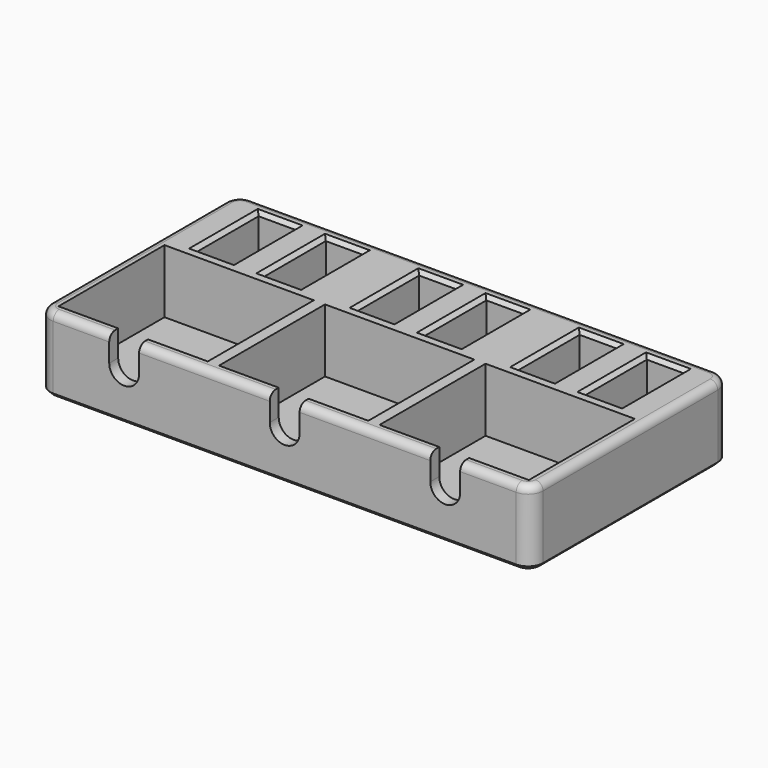
from build123d import *

# Parameters (mm, degrees)
F0_W     = 132
F0_H     = 66.5
F0_W_2   = 10
F0_H_2   = 21
F0_W_3   = 40
F0_H_3   = 35.5
F1_DEPTH = 17
F2_W     = 132
F2_H     = 66.5
F2_W_2   = 10
F2_H_2   = 21
F2_W_3   = 40
F2_H_3   = 35.5
F3_DEPTH = 3
F5_DEPTH = 3
F6_ANGLE = 180
F7_R     = 4
F8_R     = 2
F9_SIZE  = 1
F10_SIZE = 1


with BuildPart() as f1:
    # F0 (on Top) → F1 (new body)
    with BuildSketch(Plane.XY):
        with Locations((-10.436555624, -5.9587561041)):
            Rectangle(F0_W, F0_H)
        with Locations((-62.436555624, -24.7087561041)):
            Rectangle(F0_W_2, F0_H_2, mode=Mode.SUBTRACT)
        with Locations((-44.436555624, -24.7087561041)):
            Rectangle(F0_W_2, F0_H_2, mode=Mode.SUBTRACT)
        with Locations((-19.436555624, -24.7087561041)):
            Rectangle(F0_W_2, F0_H_2, mode=Mode.SUBTRACT)
        with Locations((-1.436555624, -24.7087561041)):
            Rectangle(F0_W_2, F0_H_2, mode=Mode.SUBTRACT)
        with Locations((23.563444376, -24.7087561041)):
            Rectangle(F0_W_2, F0_H_2, mode=Mode.SUBTRACT)
        with Locations((41.563444376, -24.7087561041)):
            Rectangle(F0_W_2, F0_H_2, mode=Mode.SUBTRACT)
        with Locations((-53.436555624, 6.5412438959)):
            Rectangle(F0_W_3, F0_H_3, mode=Mode.SUBTRACT)
        with Locations((-10.436555624, 6.5412438959)):
            Rectangle(F0_W_3, F0_H_3, mode=Mode.SUBTRACT)
        with Locations((32.563444376, 6.5412438959)):
            Rectangle(F0_W_3, F0_H_3, mode=Mode.SUBTRACT)
    extrude(amount=F1_DEPTH)

    # F2 (on face) → F3 (join)
    with BuildSketch(Plane.XY.offset(17)):
        with Locations((-10.436555624, -5.9587561041)):
            Rectangle(F2_W, F2_H)
        with Locations((-62.436555624, -24.7087561041)):
            Rectangle(F2_W_2, F2_H_2, mode=Mode.SUBTRACT)
        with Locations((-44.436555624, -24.7087561041)):
            Rectangle(F2_W_2, F2_H_2, mode=Mode.SUBTRACT)
        with Locations((-19.436555624, -24.7087561041)):
            Rectangle(F2_W_2, F2_H_2, mode=Mode.SUBTRACT)
        with Locations((-1.436555624, -24.7087561041)):
            Rectangle(F2_W_2, F2_H_2, mode=Mode.SUBTRACT)
        with Locations((23.563444376, -24.7087561041)):
            Rectangle(F2_W_2, F2_H_2, mode=Mode.SUBTRACT)
        with Locations((41.563444376, -24.7087561041)):
            Rectangle(F2_W_2, F2_H_2, mode=Mode.SUBTRACT)
        with Locations((-53.436555624, 6.5412438959)):
            Rectangle(F2_W_3, F2_H_3, mode=Mode.SUBTRACT)
        with Locations((-10.436555624, 6.5412438959)):
            Rectangle(F2_W_3, F2_H_3, mode=Mode.SUBTRACT)
        with Locations((32.563444376, 6.5412438959)):
            Rectangle(F2_W_3, F2_H_3, mode=Mode.SUBTRACT)
        with Locations((-53.436555624, 6.5412438959)):
            Rectangle(F2_W_3, F2_H_3)
        with Locations((-10.436555624, 6.5412438959)):
            Rectangle(F2_W_3, F2_H_3)
        with Locations((32.563444376, 6.5412438959)):
            Rectangle(F2_W_3, F2_H_3)
        with Locations((41.563444376, -24.7087561041)):
            Rectangle(F2_W_2, F2_H_2)
        with Locations((23.563444376, -24.7087561041)):
            Rectangle(F2_W_2, F2_H_2)
        with Locations((-1.436555624, -24.7087561041)):
            Rectangle(F2_W_2, F2_H_2)
        with Locations((-19.436555624, -24.7087561041)):
            Rectangle(F2_W_2, F2_H_2)
        with Locations((-44.436555624, -24.7087561041)):
            Rectangle(F2_W_2, F2_H_2)
        with Locations((-62.436555624, -24.7087561041)):
            Rectangle(F2_W_2, F2_H_2)
    extrude(amount=F3_DEPTH)

    # F4 (on face) → F5 (cut, through all)
    with BuildSketch(Plane(origin=(0, 27.2912438959, 0), x_dir=(-1, 0, 0), z_dir=(0, 1, 0))):
        with BuildLine():
            Line((57.436555624, 0), (57.436555624, 7))
            ThreePointArc((57.436555624, 7), (53.436555624, 11), (49.436555624, 7))
            Line((49.436555624, 7), (49.436555624, 0))
            Line((49.436555624, 0), (57.436555624, 0))
        make_face()
        with BuildLine():
            Line((6.436555624, 0), (14.436555624, 0))
            Line((14.436555624, 0), (14.436555624, 7))
            ThreePointArc((14.436555624, 7), (10.436555624, 11), (6.436555624, 7))
            Line((6.436555624, 7), (6.436555624, 0))
        make_face()
        with BuildLine():
            Line((-36.563444376, 0), (-28.563444376, 0))
            Line((-28.563444376, 0), (-28.563444376, 7))
            ThreePointArc((-28.563444376, 7), (-32.563444376, 11), (-36.563444376, 7))
            Line((-36.563444376, 7), (-36.563444376, 0))
        make_face()
    extrude(amount=-F5_DEPTH, mode=Mode.SUBTRACT)


with BuildPart() as f1_1:
    # F6: moved
    add(f1.part.rotate(Axis((-10.436555624, 27.2912438959, 20), (1, 0, 0)), F6_ANGLE))

    # F7
    f7_edges = [f1_1.edges().sort_by_distance(p)[0] for p in [
        (-76.436556, 27.291244, 30),
        (55.563444, 27.291244, 30),
        (55.563444, 93.791244, 30),
        (-76.436556, 93.791244, 30),
    ]]
    fillet(f7_edges, radius=F7_R)

    # F8
    f8_edges = [f1_1.edges().sort_by_distance(p)[0] for p in [
        (-76.436556, 60.541244, 40),
        (-10.436556, 93.791244, 40),
        (-31.936556, 27.291244, 40),
        (11.063444, 27.291244, 40),
    ]]
    fillet(f8_edges, radius=F8_R)

    # F9
    f9_edges = [f1_1.edges().sort_by_distance(p)[0] for p in [
        (-67.436556, 79.291244, 40),
        (-39.436556, 79.291244, 40),
        (-49.436556, 79.291244, 40),
        (-62.436556, 68.791244, 40),
        (-57.436556, 79.291244, 40),
        (-24.436556, 79.291244, 40),
        (-14.436556, 79.291244, 40),
        (-6.436556, 79.291244, 40),
        (3.563444, 79.291244, 40),
        (18.563444, 79.291244, 40),
        (28.563444, 79.291244, 40),
        (36.563444, 79.291244, 40),
        (46.563444, 79.291244, 40),
        (41.563444, 68.791244, 40),
        (23.563444, 68.791244, 40),
        (-1.436556, 68.791244, 40),
        (-19.436556, 68.791244, 40),
        (-44.436556, 68.791244, 40),
        (-44.436556, 89.791244, 40),
        (-62.436556, 89.791244, 40),
        (-19.436556, 89.791244, 40),
        (-1.436556, 89.791244, 40),
        (23.563444, 89.791244, 40),
        (41.563444, 89.791244, 40),
    ]]
    chamfer(f9_edges, length=F9_SIZE)

    # F10
    f10_edges = [f1_1.edges().sort_by_distance(p)[0] for p in [
        (-10.436556, 27.291244, 20),
    ]]
    chamfer(f10_edges, length=F10_SIZE)


solid = f1_1.part
